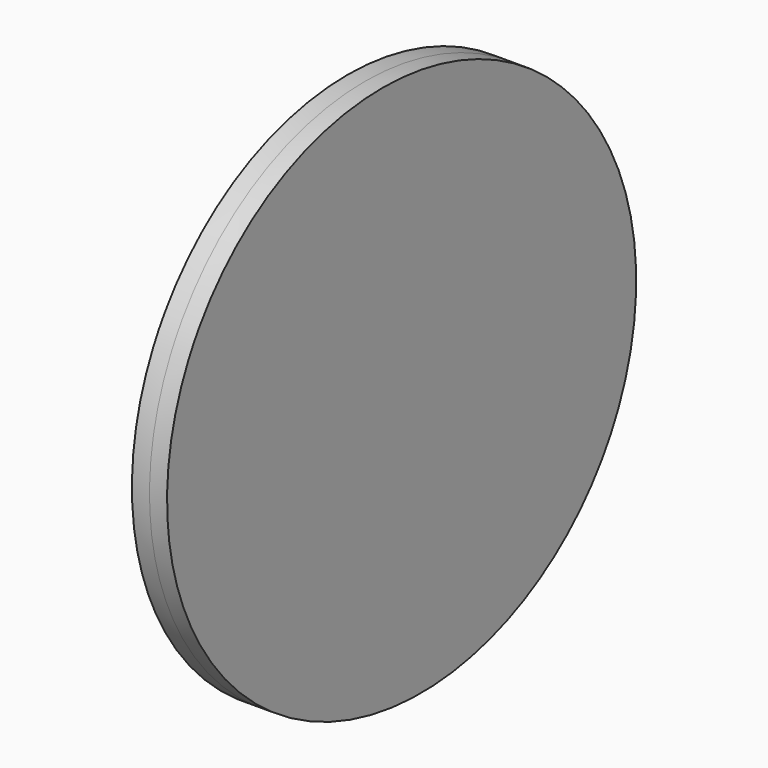
from build123d import *

# Parameters (mm, degrees)
F1_DEPTH = 0.8001


with BuildPart() as f1:
    # F0 (on Right) → F1 (new body, symmetric)
    with BuildSketch(Plane.YZ):
        with BuildLine():
            add(Edge.make_bspline(
                [(-12.145517, 6.151286), (-21.776165, -12.864121), (1.257434, -12.583346), (24.291033, -12.302571), (10.888082, 6.43206), (-2.514869, 25.166692), (-12.145517, 6.151286)],
                knots=[0, 0, 0, 2.094395, 2.094395, 4.18879, 4.18879, 6.283185, 6.283185, 6.283185], degree=2, weights=[1, 0.5, 1, 0.5, 1, 0.5, 1]))
        make_face()
    extrude(amount=F1_DEPTH, both=True)


solid = f1.part
